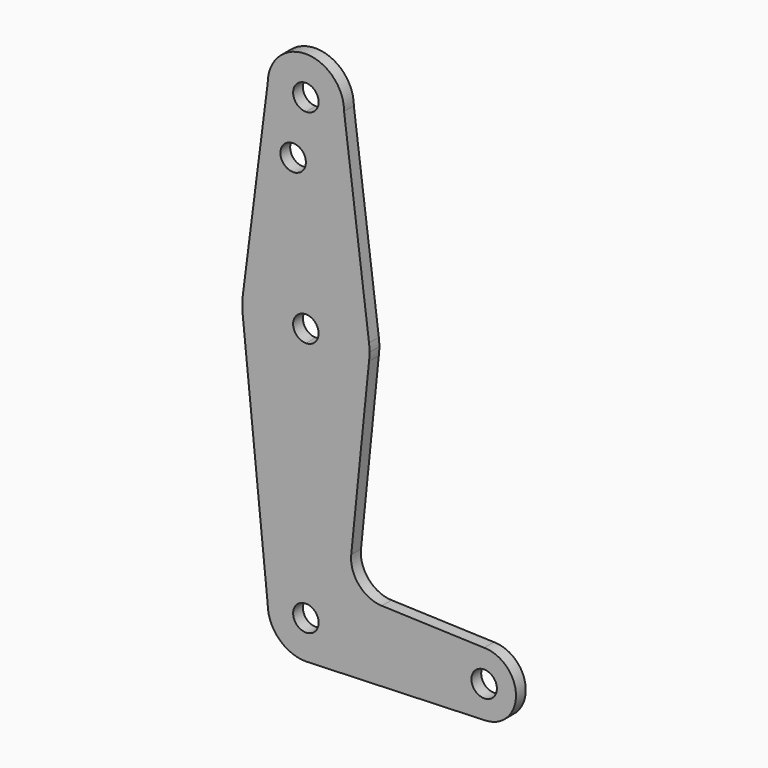
from build123d import *

# Parameters (mm, degrees)
F0_R     = 3.175
F1_DEPTH = 3.048


with BuildPart() as f1:
    # F0 (on Front) → F1 (new body)
    with BuildSketch(Plane.XZ):
        with BuildLine():
            ThreePointArc((3.175, 0), (-2.2450640303, -2.2450640303), (0, 3.175))
            Line((0, 3.175), (0, 9.525))
            ThreePointArc((0, 9.525), (-6.7351920908, 6.7351920908), (-9.525, 0))
            ThreePointArc((-9.525, 0), (-6.7351920908, -6.7351920908), (0, -9.525))
            Line((0, -9.525), (0.6773435479, -9.500885786))
            ThreePointArc((0.6773435479, -9.500885786), (6.9705567315, -6.4912990883), (9.525, 0))
            Line((9.525, 0), (3.175, 0))
        make_face()
        with BuildLine():
            ThreePointArc((-9.525, 0), (-6.7351920908, 6.7351920908), (0, 9.525))
            Line((0, 9.525), (0, 47.625))
            ThreePointArc((0, 47.625), (-10.4912828548, 51.5857812233), (-15.7474569047, 61.4917106696))
            Line((-15.7474569047, 61.4917106696), (-9.525, 0))
        make_face()
        with BuildLine():
            Line((0, 47.625), (0, 9.525))
            ThreePointArc((0, 9.525), (6.7351920908, 6.7351920908), (9.525, 0))
            Line((9.525, 0), (36.5125, 0))
            ThreePointArc((36.5125, 0), (38.8373399243, 5.6126600757), (44.45, 7.9375))
            Line((44.45, 7.9375), (18.9314618746, 8.8488763616))
            ThreePointArc((18.9314618746, 8.8488763616), (13.2231606618, 11.5689803321), (11.3054108743, 17.5944184156))
            Line((11.3054108743, 17.5944184156), (15.7474569047, 61.4917106696))
            ThreePointArc((15.7474569047, 61.4917106696), (10.4912828548, 51.5857812233), (0, 47.625))
        make_face()
        with BuildLine():
            Line((36.5125, 0), (9.525, 0))
            ThreePointArc((9.525, 0), (6.9705567315, -6.4912990883), (0.6773435479, -9.500885786))
            Line((0.6773435479, -9.500885786), (44.7324052746, -7.9324746146))
            ThreePointArc((44.7324052746, -7.9324746146), (38.9380895153, -5.7116327839), (36.5125, 0))
        make_face()
        with BuildLine():
            ThreePointArc((-15.7474569047, 61.4917106696), (-10.4912828548, 51.5857812233), (0, 47.625))
            Line((0, 47.625), (0, 60.325))
            ThreePointArc((0, 60.325), (-3.175, 63.5), (0, 66.675))
            Line((0, 66.675), (0, 79.375))
            ThreePointArc((0, 79.375), (-10.4912828548, 75.4142187767), (-15.7474569047, 65.5082893304))
            ThreePointArc((-15.7474569047, 65.5082893304), (-15.875, 63.5), (-15.7474569047, 61.4917106696))
        make_face()
        with BuildLine():
            Line((0, 60.325), (0, 47.625))
            ThreePointArc((0, 47.625), (10.4912828548, 51.5857812233), (15.7474569047, 61.4917106696))
            ThreePointArc((15.7474569047, 61.4917106696), (15.8430821396, 62.4938323604), (15.875, 63.5))
            ThreePointArc((15.875, 63.5), (15.8430821396, 64.5061676396), (15.7474569047, 65.5082893304))
            ThreePointArc((15.7474569047, 65.5082893304), (10.4912828548, 75.4142187767), (0, 79.375))
            Line((0, 79.375), (0, 66.675))
            ThreePointArc((0, 66.675), (2.2450640303, 65.7450640303), (3.175, 63.5))
            ThreePointArc((3.175, 63.5), (2.2450640303, 61.2549359697), (0, 60.325))
        make_face()
        with BuildLine():
            ThreePointArc((44.45, 7.9375), (38.8373399243, 5.6126600757), (36.5125, 0))
            ThreePointArc((36.5125, 0), (38.9380895153, -5.7116327839), (44.7324052746, -7.9324746146))
            ThreePointArc((44.7324052746, -7.9324746146), (50.1616327839, -5.5119104847), (52.3875, 0))
            ThreePointArc((52.3875, 0), (50.0626600757, 5.6126600757), (44.45, 7.9375))
        make_face()
        with BuildLine():
            ThreePointArc((47.625, 0), (44.45, -3.175), (41.275, 0))
            ThreePointArc((41.275, 0), (44.45, 3.175), (47.625, 0))
        make_face(mode=Mode.SUBTRACT)
        with BuildLine():
            ThreePointArc((0, -9.525), (0.3388863295, -9.5189695375), (0.6773435479, -9.500885786))
            Line((0.6773435479, -9.500885786), (0, -9.525))
        make_face()
        with BuildLine():
            Line((-9.525, 114.3), (-15.7474569047, 65.5082893304))
            ThreePointArc((-15.7474569047, 65.5082893304), (-10.4912828548, 75.4142187767), (0, 79.375))
            Line((0, 79.375), (0, 100.0252))
            Line((0, 100.0252), (0, 104.775))
            ThreePointArc((0, 104.775), (-6.7351920908, 107.5648079092), (-9.525, 114.3))
        make_face()
        with Locations((-3.175, 100.0252)):
            Circle(F0_R, mode=Mode.SUBTRACT)
        with BuildLine():
            Line((0, 100.0252), (0, 79.375))
            ThreePointArc((0, 79.375), (10.4912828548, 75.4142187767), (15.7474569047, 65.5082893304))
            Line((15.7474569047, 65.5082893304), (9.525, 114.3))
            ThreePointArc((9.525, 114.3), (6.7351920908, 107.5648079092), (0, 104.775))
            Line((0, 104.775), (0, 100.0252))
        make_face()
        with BuildLine():
            ThreePointArc((9.525, 114.3), (0, 123.825), (-9.525, 114.3))
            ThreePointArc((-9.525, 114.3), (-6.7351920908, 107.5648079092), (0, 104.775))
            ThreePointArc((0, 104.775), (6.7351920908, 107.5648079092), (9.525, 114.3))
        make_face()
        with BuildLine():
            ThreePointArc((3.175, 114.3), (2.2450640303, 112.0549359697), (0, 111.125))
            ThreePointArc((0, 111.125), (-2.2450640303, 116.5450640303), (3.175, 114.3))
        make_face(mode=Mode.SUBTRACT)
        with BuildLine():
            Line((0, 9.525), (0, 3.175))
            ThreePointArc((0, 3.175), (2.2450640303, 2.2450640303), (3.175, 0))
            Line((3.175, 0), (9.525, 0))
            ThreePointArc((9.525, 0), (6.7351920908, 6.7351920908), (0, 9.525))
        make_face()
    extrude(amount=F1_DEPTH)


solid = f1.part
